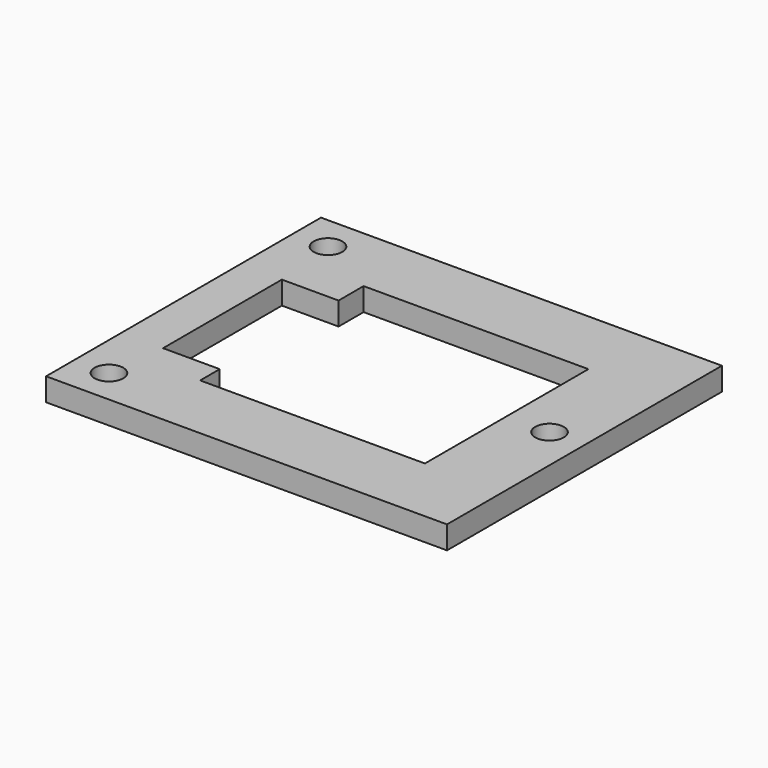
from build123d import *

# Parameters (mm, degrees)
F0_W     = 35
F0_H     = 30
F0_R     = 1.25
F1_DEPTH = 2


with BuildPart() as f1:
    # F0 (on Top) → F1 (new body)
    with BuildSketch(Plane.XY):
        Rectangle(F0_W, F0_H)
        with Locations((-14.45, -11.95)):
            Circle(F0_R, mode=Mode.SUBTRACT)
        Polygon((-8.916158, 8.917894), (8.916158, 8.917894), (10.707928, 8.917894), (10.707925, -8.917894), (8.916158, -8.917894), (-8.916158, -8.917894), (-8.916158, -6.781416), (-13.864904, -6.781416), (-13.864904, 6.187579), (-8.916158, 6.187579), align=None, mode=Mode.SUBTRACT)
        with Locations((-14.45, 11.95)):
            Circle(F0_R, mode=Mode.SUBTRACT)
        with Locations((14.45, 0)):
            Circle(F0_R, mode=Mode.SUBTRACT)
    extrude(amount=F1_DEPTH)


solid = f1.part
